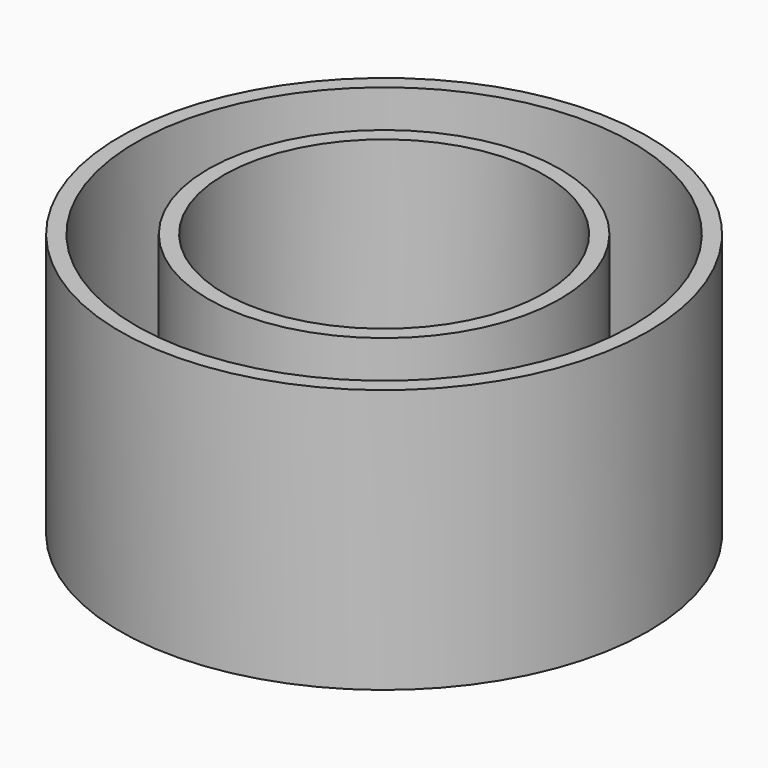
from build123d import *

# Parameters (mm, degrees)
F0_R     = 15
F1_DEPTH = 15
F2_R     = 14.1
F3_DEPTH = 12
F4_R     = 10
F4_R_2   = 9.1
F5_DEPTH = 12


with BuildPart() as f1:
    # F0 (on Top) → F1 (new body)
    with BuildSketch(Plane.XY):
        Circle(F0_R)
    extrude(amount=F1_DEPTH)

    # F2 (on face) → F3 (cut)
    with BuildSketch(Plane.XY.offset(15)):
        Circle(F2_R)
    extrude(amount=-F3_DEPTH, mode=Mode.SUBTRACT)


with BuildPart() as f5:
    # F4 (on face) → F5 (new body, through all)
    with BuildSketch(Plane.XY.offset(3)):
        Circle(F4_R)
        Circle(F4_R_2, mode=Mode.SUBTRACT)
    extrude(amount=F5_DEPTH)


solid = Compound([f1.part, f5.part])
